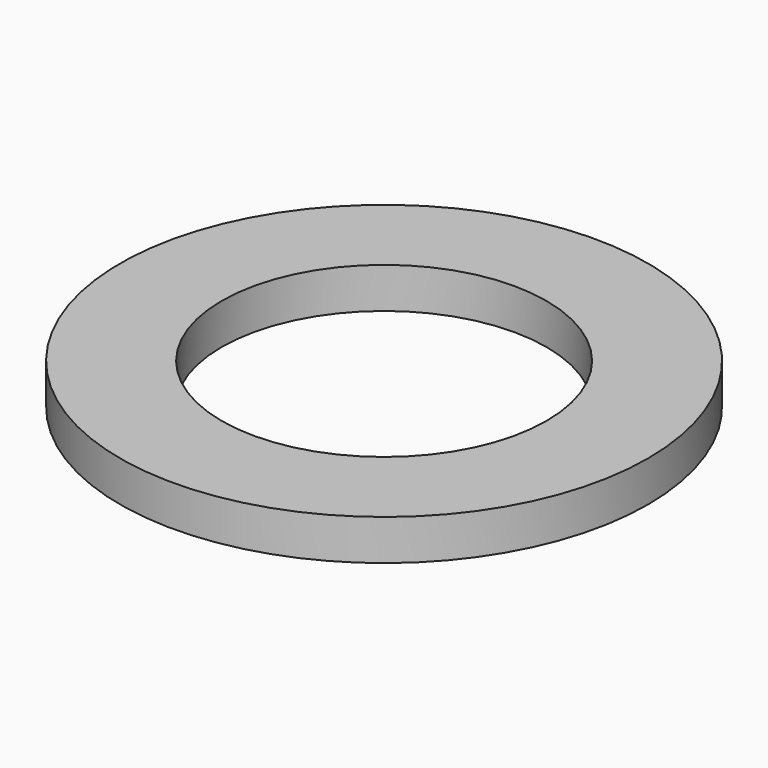
from build123d import *

# Parameters (mm, degrees)
CYLINDER007_R     = 0.4
CYLINDER007_DEPTH = 0.1
CYLINDER006_R     = 0.65
CYLINDER006_DEPTH = 0.1


with BuildPart() as cylinder007:
    # Cylinder007 → Cylinder007 (new body)
    with BuildSketch(Plane.XY.offset(1.62)):
        Circle(CYLINDER007_R)
    extrude(amount=CYLINDER007_DEPTH)


with BuildPart() as cut017:
    # Cylinder006 → Cylinder006 (new body)
    with BuildSketch(Plane.XY.offset(1.62)):
        Circle(CYLINDER006_R)
    extrude(amount=CYLINDER006_DEPTH)

    # Cut017: cut Cylinder007
    add(cylinder007.part, mode=Mode.SUBTRACT)


with BuildPart() as cut017_1:
    # Cut017 placement: moved
    add(cut017.part.moved(Location((31.58, 12.7, 0))))


solid = cut017_1.part
